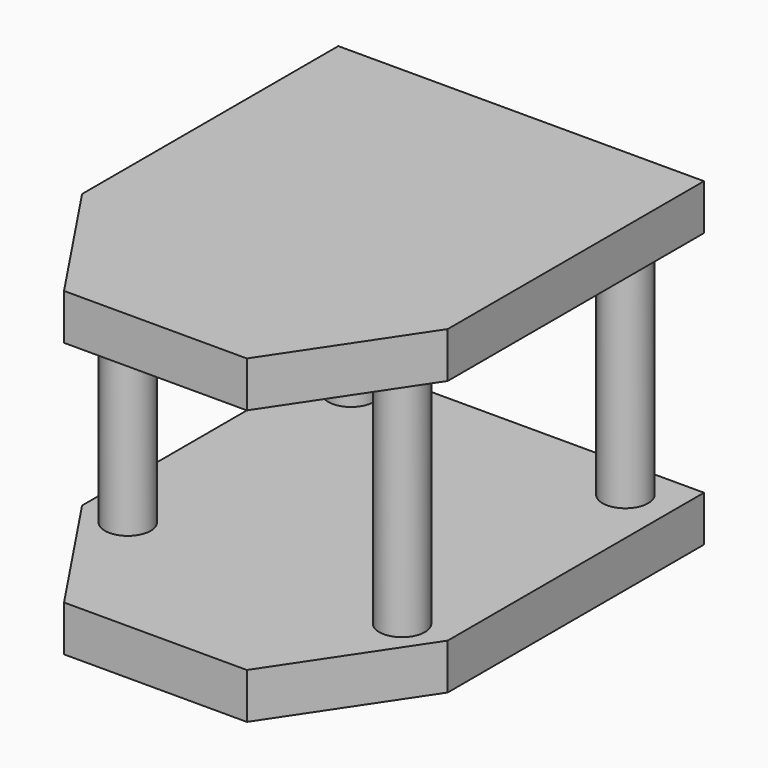
from build123d import *

# Parameters (mm, degrees)
F0_R     = 2
F1_DEPTH = 5
F2_R     = 2.5
F2_R_2   = 2
F3_R     = 2.5
F4_DEPTH = 25
F6_DEPTH = 5


with BuildPart() as f1:
    # F0 (on Top) → F1 (new body)
    with BuildSketch(Plane.XY):
        Polygon((30, 38.2905970075), (-10, 38.2905970075), (-10, 3.2572265546), (0, -11.7094029925), (20, -11.7094029925), (30, 3.2572265546), align=None)
        with Locations((-5, 3.2572265546)):
            Circle(F0_R, mode=Mode.SUBTRACT)
        with Locations((25, 3.2572265546)):
            Circle(F0_R, mode=Mode.SUBTRACT)
        with Locations((-5, 33.7905970075)):
            Circle(F0_R, mode=Mode.SUBTRACT)
        with Locations((25, 33.7905970075)):
            Circle(F0_R, mode=Mode.SUBTRACT)
    extrude(amount=F1_DEPTH)

    # F2 (on face) + F3 (on face) → F4 (join)
    with BuildSketch(Plane.XY.offset(5)):
        with Locations((-5, 33.7905970075)):
            Circle(F2_R)
        with Locations((-5, 33.7905970075)):
            Circle(F2_R_2, mode=Mode.SUBTRACT)
        with Locations((25, 3.2572265546)):
            Circle(F2_R)
        with Locations((25, 3.2572265546)):
            Circle(F2_R_2, mode=Mode.SUBTRACT)
        with Locations((-5, 33.7905970075)):
            Circle(F2_R_2)
        with Locations((25, 33.7905970075)):
            Circle(F2_R_2)
        with Locations((25, 3.2572265546)):
            Circle(F2_R_2)
        with Locations((-5, 3.2572265546)):
            Circle(F2_R_2)
    with BuildSketch(Plane.XY.offset(5)):
        with Locations((25, 33.7905970075)):
            Circle(F3_R)
        with Locations((-5, 3.2572265546)):
            Circle(F3_R)
    extrude(amount=F4_DEPTH)


with BuildPart() as f6:
    # F5 (on face) → F6 (new body)
    with BuildSketch(Plane.XY.offset(30)):
        Polygon((30, 38.2905970075), (-10, 38.2905970075), (-10, 3.2572265546), (0, -11.7094029925), (20, -11.7094029925), (30, 3.2572265546), align=None)
    extrude(amount=F6_DEPTH)


solid = Compound([f1.part, f6.part])
